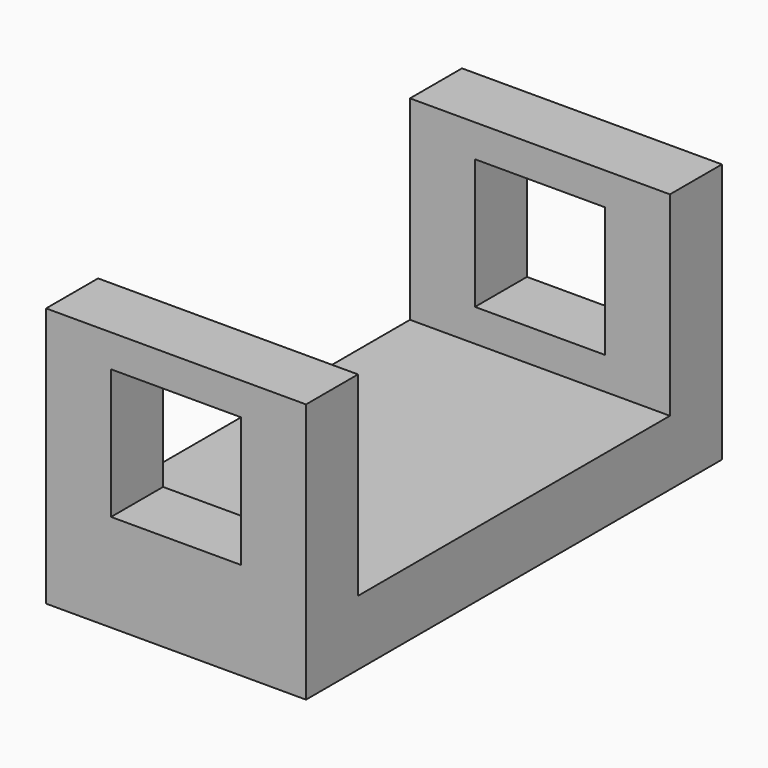
from build123d import *

# Parameters (mm, degrees)
F1_DEPTH = 50.8
F3_DEPTH = 114.3


with BuildPart() as f1:
    # F0 (on Right) → F1 (new body)
    with BuildSketch(Plane.YZ):
        Polygon((-52.681003, -18.723272), (-39.981003, -18.723272), (48.918997, -18.723272), (48.918997, 32.076728), (36.218997, 32.076728), (36.218997, -6.023272), (-39.981003, -6.023272), (-39.981003, 32.076728), (-52.681003, 32.076728), align=None)
    extrude(amount=F1_DEPTH)

    # F2 (on face) → F3 (cut, symmetric)
    with BuildSketch(Plane.XZ.offset(52.681003)):
        Polygon((24.353357, 0.326728), (38.1, 0.326728), (38.1, 13.026728), (38.1, 25.726728), (25.4, 25.726728), (12.7, 25.726728), (12.7, 9.816655), (12.7, 0.326728), align=None)
    extrude(amount=F3_DEPTH, both=True, mode=Mode.SUBTRACT)


solid = f1.part
